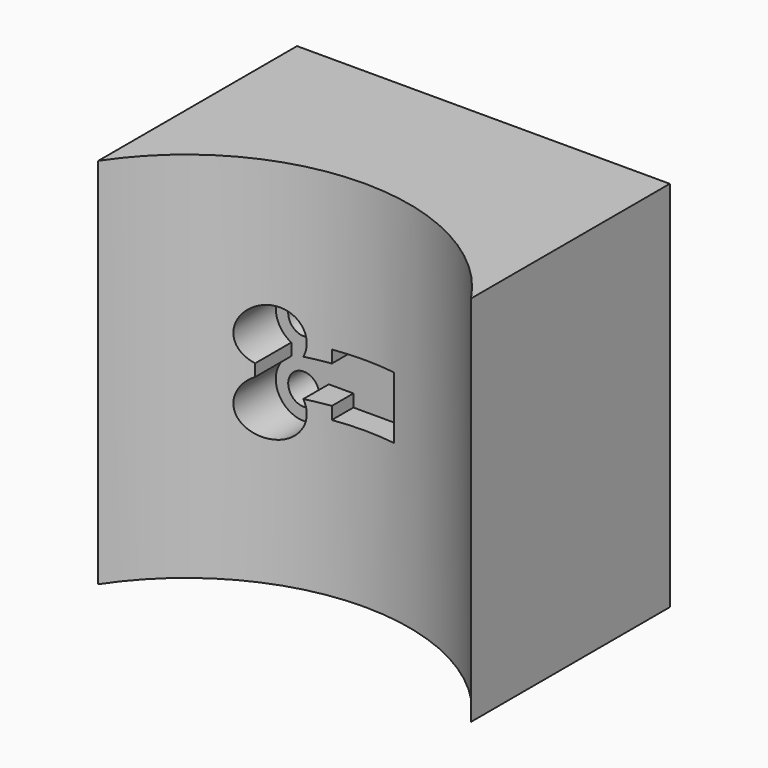
from build123d import *

# Parameters (mm, degrees)
F0_W      = 30
F0_H      = 30
F1_DEPTH  = 20
F3_DEPTH  = 30.001
F8_DEPTH  = 3
F9_DEPTH  = 7.0511256289
F10_R     = 1.25
F11_DEPTH = 8
F12_DEPTH = 7.0511257289
F14_R     = 2.25
F15_DEPTH = 2.9431098966
F16_DEPTH = 7.1080158323


with BuildPart() as f1:
    # F0 (on Front) → F1 (new body)
    with BuildSketch(Plane.XZ):
        with Locations((15, 15)):
            Rectangle(F0_W, F0_H)
    extrude(amount=F1_DEPTH)

    # F2 (on face) → F3 (cut, through all)
    with BuildSketch(Plane.XY.offset(30)):
        with BuildLine():
            Line((0, -20), (30, -20))
            ThreePointArc((30, -20), (15, -11.9498743711), (0, -20))
        make_face()
    extrude(amount=-F3_DEPTH, mode=Mode.SUBTRACT)

    # F7 (on offset) → F8 (cut)
    with BuildSketch(Plane.XZ.offset(12.9498743711)):
        Polygon((17.5, 17.5), (15, 17.5), (12.5, 17.5), (12.5, 16.5), (12.5, 13.5), (12.5, 12.5), (17.5, 12.5), (17.5, 15), align=None)
        Polygon((12.5, 13.5), (12.5, 16.5), (7.5, 16.5), (7.5, 15), (7.5, 13.5), align=None)
    extrude(amount=-F8_DEPTH, mode=Mode.SUBTRACT)

    # F7 (on offset) → F9 (cut, through all)
    with BuildSketch(Plane.XZ.offset(12.9498743711)):
        Polygon((17.5, 17.5), (15, 17.5), (12.5, 17.5), (12.5, 16.5), (12.5, 13.5), (12.5, 12.5), (17.5, 12.5), (17.5, 15), align=None)
        Polygon((12.5, 13.5), (12.5, 16.5), (7.5, 16.5), (7.5, 15), (7.5, 13.5), align=None)
    extrude(amount=F9_DEPTH, mode=Mode.SUBTRACT)

    # F10 (on offset) → F11 (cut)
    with BuildSketch(Plane.XZ.offset(12.9498743711)):
        with Locations((8.5, 17.5)):
            Circle(F10_R)
        with Locations((8.5, 12.5)):
            Circle(F10_R)
    extrude(amount=-F11_DEPTH, mode=Mode.SUBTRACT)

    # F10 (on offset) → F12 (cut, through all)
    with BuildSketch(Plane.XZ.offset(12.9498743711)):
        with Locations((8.5, 17.5)):
            Circle(F10_R)
        with Locations((8.5, 12.5)):
            Circle(F10_R)
    extrude(amount=F12_DEPTH, mode=Mode.SUBTRACT)

    # F14 (on plane+point) → F15 (cut, through all)
    with BuildSketch(Plane.XZ.offset(12.8929842677)):
        with Locations((8.5, 17.5)):
            Circle(F14_R)
        with Locations((8.5, 12.5)):
            Circle(F14_R)
    extrude(amount=-F15_DEPTH, mode=Mode.SUBTRACT)

    # F14 (on plane+point) → F16 (cut, through all)
    with BuildSketch(Plane.XZ.offset(12.8929842677)):
        with Locations((8.5, 17.5)):
            Circle(F14_R)
        with Locations((8.5, 12.5)):
            Circle(F14_R)
    extrude(amount=F16_DEPTH, mode=Mode.SUBTRACT)


solid = f1.part
